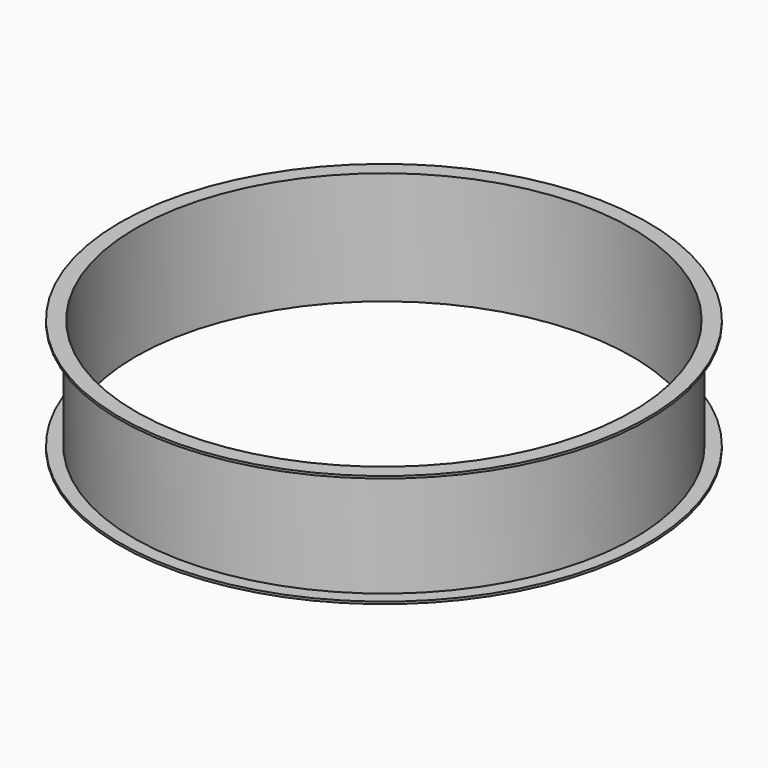
from build123d import *


with BuildPart() as f1:
    # F0 (on Front) → F1 (revolve)
    with BuildSketch(Plane.XZ):
        Polygon((-111, 0), (-110, 0), (-110, 25), (-117, 25), (-117, 24), (-111, 24), align=None)
        Polygon((-110, -25), (-110, 0), (-111, 0), (-111, -24), (-117, -24), (-117, -25), align=None)
    revolve(axis=Axis((0, 0, 12.5), (0, 0, 1)))


solid = f1.part
